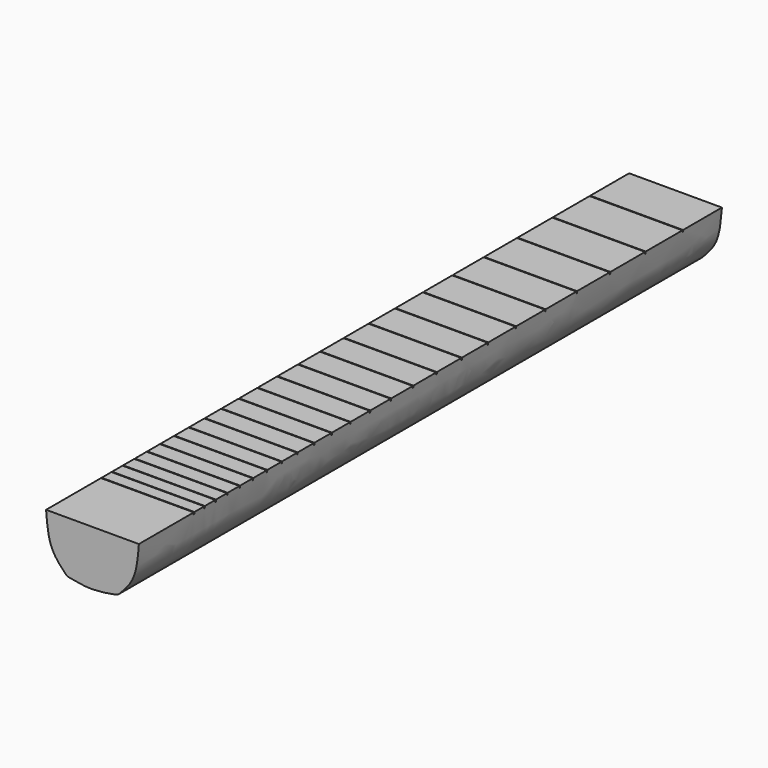
from build123d import *

# Parameters (mm, degrees)
F1_DEPTH      = 647.7
F2_W          = 68.3260023654
F2_H          = 111.125
F3_DEPTH      = 76.2
F3_DEPTH_BACK = 25.4
F2_H_2        = 0.5842
F4_DEPTH      = 1.4478
F5_R          = 5.08
F6_R          = 5.08


with BuildPart() as f1:
    # F0 (on Front) → F1 (new body)
    with BuildSketch(Plane.XZ):
        with BuildLine():
            Line((34.1630011827, 40.4537800541), (-34.1630011827, 40.4537800541))
            add(Edge.make_bspline(
                [(-34.1630011827, 40.4537800541), (-33.4921166182, 31.9918883234), (-32.232594974, 16.1054954192), (-22.9370631963, 6.733690431), (-18.5927990824, 2.3537800541)],
                knots=[0, 0, 0, 0, 0.5326502864, 1, 1, 1, 1], degree=3))
            add(Edge.make_bspline(
                [(18.5927990824, 2.3537800541), (12.0050568248, 1.1572068806), (-0.8556853443, -1.1787708292), (-12.7776839606, 1.1956327725), (-18.5927990824, 2.3537800541)],
                knots=[0, 0, 0, 0, 0.5122365545, 1, 1, 1, 1], degree=3))
            add(Edge.make_bspline(
                [(34.1630011827, 40.4537800541), (33.4921166182, 31.9918883234), (32.232594974, 16.1054954192), (22.9370631963, 6.733690431), (18.5927990824, 2.3537800541)],
                knots=[0, 0, 0, 0, 0.5326502864, 1, 1, 1, 1], degree=3))
        make_face()
        with BuildLine():
            Line((34.1630011827, 40.4537800541), (-34.1630011827, 40.4537800541))
            add(Edge.make_bspline(
                [(-34.1630011827, 40.4537800541), (-33.4921166182, 31.9918883234), (-32.232594974, 16.1054954192), (-22.9370631963, 6.733690431), (-18.5927990824, 2.3537800541)],
                knots=[0, 0, 0, 0, 0.5326502864, 1, 1, 1, 1], degree=3))
            add(Edge.make_bspline(
                [(18.5927990824, 2.3537800541), (12.0050568248, 1.1572068806), (-0.8556853443, -1.1787708292), (-12.7776839606, 1.1956327725), (-18.5927990824, 2.3537800541)],
                knots=[0, 0, 0, 0, 0.5122365545, 1, 1, 1, 1], degree=3))
            add(Edge.make_bspline(
                [(34.1630011827, 40.4537800541), (33.4921166182, 31.9918883234), (32.232594974, 16.1054954192), (22.9370631963, 6.733690431), (18.5927990824, 2.3537800541)],
                knots=[0, 0, 0, 0, 0.5326502864, 1, 1, 1, 1], degree=3))
        make_face()
    extrude(amount=F1_DEPTH)

    # F2 (on face) → F3 (cut, two sides)
    with BuildSketch(Plane.XY.offset(40.4537800541)) as f3_sk:
        with Locations((0, -592.1375)):
            Rectangle(F2_W, F2_H)
    extrude(amount=-F3_DEPTH, mode=Mode.SUBTRACT)
    extrude(f3_sk.sketch, amount=F3_DEPTH_BACK, mode=Mode.SUBTRACT)

    # F2 (on face) → F4 (cut)
    with BuildSketch(Plane.XY.offset(40.4537800541)):
        with Locations((0, -36.0852691218)):
            Rectangle(F2_W, F2_H_2)
        with Locations((0, -70.4272727273)):
            Rectangle(F2_W, F2_H_2)
        with Locations((0, -102.9565180824)):
            Rectangle(F2_W, F2_H_2)
        with Locations((0, -133.6523809524)):
            Rectangle(F2_W, F2_H_2)
        with Locations((0, -162.5314606742)):
            Rectangle(F2_W, F2_H_2)
        with Locations((0, -189.6377652051)):
            Rectangle(F2_W, F2_H_2)
        with Locations((0, -215.3234979973)):
            Rectangle(F2_W, F2_H_2)
        with Locations((0, -239.5714555766)):
            Rectangle(F2_W, F2_H_2)
        with Locations((0, -262.6227110583)):
            Rectangle(F2_W, F2_H_2)
        with Locations((0, -284.231986532)):
            Rectangle(F2_W, F2_H_2)
        with Locations((0, -304.638559322)):
            Rectangle(F2_W, F2_H_2)
        with Locations((0, -323.85)):
            Rectangle(F2_W, F2_H_2)
        with Locations((0, -342.0369513922)):
            Rectangle(F2_W, F2_H_2)
        with Locations((0, -359.1922048998)):
            Rectangle(F2_W, F2_H_2)
        with Locations((0, -375.3282590412)):
            Rectangle(F2_W, F2_H_2)
        with Locations((0, -390.6761904762)):
            Rectangle(F2_W, F2_H_2)
        with Locations((0, -405.1157303371)):
            Rectangle(F2_W, F2_H_2)
        with Locations((0, -418.6688826025)):
            Rectangle(F2_W, F2_H_2)
        with Locations((0, -431.546)):
            Rectangle(F2_W, F2_H_2)
        with Locations((0, -443.6872)):
            Rectangle(F2_W, F2_H_2)
        with Locations((0, -455.1426)):
            Rectangle(F2_W, F2_H_2)
        with Locations((0, -465.9376)):
            Rectangle(F2_W, F2_H_2)
        with Locations((0, -476.1484)):
            Rectangle(F2_W, F2_H_2)
        with Locations((0, -485.775)):
            Rectangle(F2_W, F2_H_2)
    extrude(amount=-F4_DEPTH, mode=Mode.SUBTRACT)

    # F5
    f5_edges = [f1.edges().sort_by_distance(p)[0] for p in [
        (-18.592799, -268.2875, 2.35378),
    ]]
    fillet(f5_edges, radius=F5_R)

    # F6
    f6_edges = [f1.edges().sort_by_distance(p)[0] for p in [
        (18.592799, -268.2875, 2.35378),
    ]]
    fillet(f6_edges, radius=F6_R)


solid = f1.part
